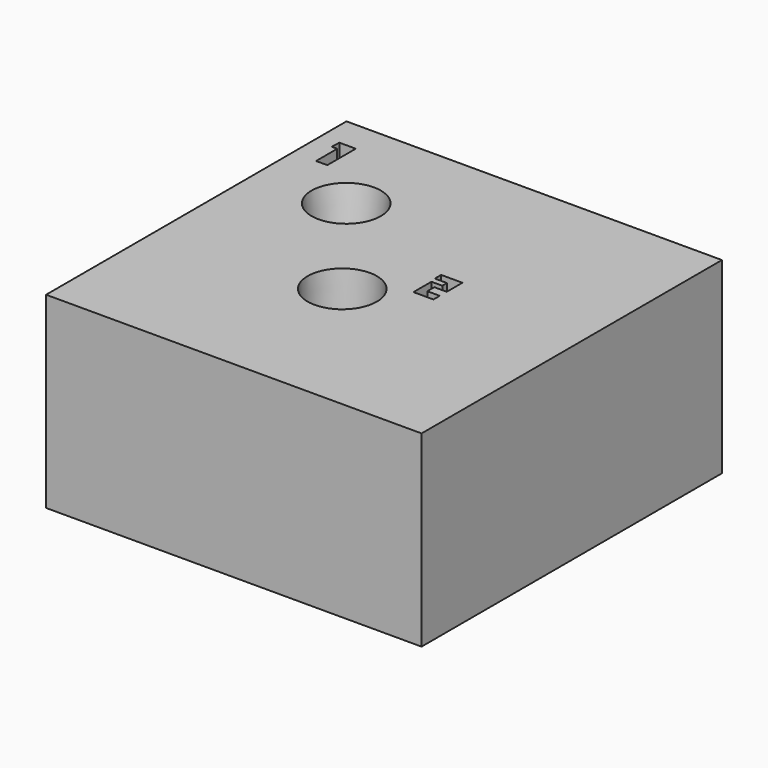
from build123d import *

# Parameters (mm, degrees)
F0_W     = 50
F0_H     = 25
F1_DEPTH = 50
F2_R     = 4.6101
F3_DEPTH = 11.938
F3_TAPER = 2.5
F4_R     = 4.61
F5_DEPTH = 13.589
F5_TAPER = 8
F7_DEPTH = 2


with BuildPart() as f1:
    # F0 (on Front) → F1 (new body)
    with BuildSketch(Plane.XZ):
        with Locations((1.772807911, 0.3909162391)):
            Rectangle(F0_W, F0_H)
    extrude(amount=F1_DEPTH)

    # F2 (on face) → F3 (cut)
    with BuildSketch(Plane.XY.offset(12.8909162391)):
        with Locations((0, -29.7321814987)):
            Circle(F2_R)
    extrude(amount=-F3_DEPTH, taper=F3_TAPER, mode=Mode.SUBTRACT)

    # F4 (on face) → F5 (cut)
    with BuildSketch(Plane.XY.offset(12.8909162391)):
        with Locations((-11.7101902142, -14.4315985963)):
            Circle(F4_R)
    extrude(amount=-F5_DEPTH, taper=F5_TAPER, mode=Mode.SUBTRACT)

    # F6 (on face) → F7 (cut)
    with BuildSketch(Plane.XY.offset(12.8909162391)):
        Polygon((-20.116565749, -5.4274424911), (-20.116565749, -8.9698005468), (-18.6207834631, -8.9243609875), (-18.6207834631, -5.4274424911), (-18.6207834631, -4.2068846524), (-20.8131559193, -4.2068846524), (-20.8399798721, -5.4274424911), align=None)
        Polygon((8.8972449303, -23.4584081918), (8.8972449303, -21.9049714506), (8.8972449303, -20.8508521318), (6.0677705333, -20.8508521318), (6.0677705333, -21.9049714506), (7.6766866259, -21.9049714506), (7.6766866259, -22.6816888899), (6.2342090532, -22.6816888899), (6.2342090532, -25.6776046008), (8.8972449303, -25.6776046008), (8.8972449303, -24.6234852821), (7.2328480892, -24.6234852821), (7.2328480892, -23.4584081918), align=None)
    extrude(amount=-F7_DEPTH, mode=Mode.SUBTRACT)


solid = f1.part
